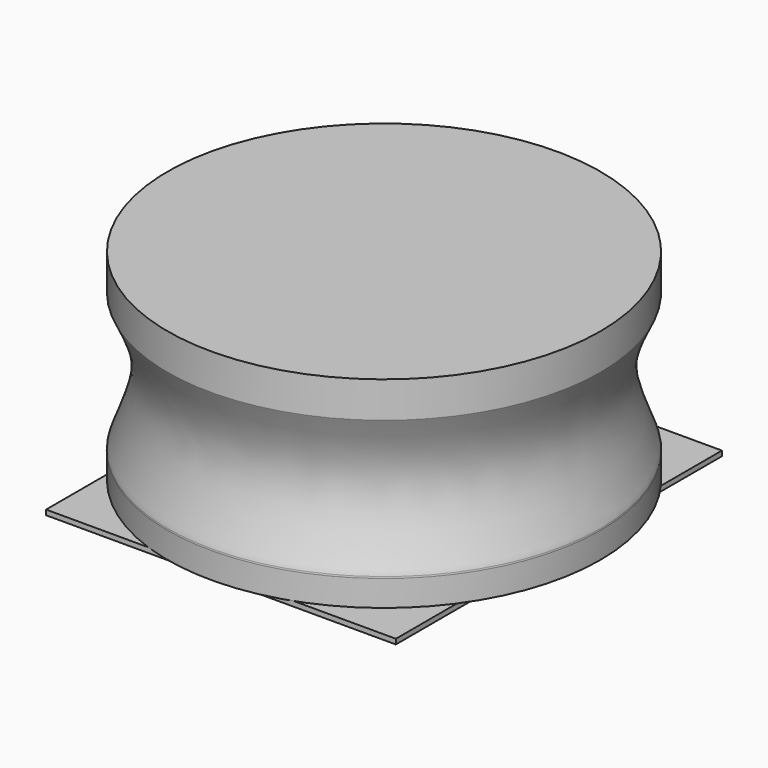
from build123d import *

# Parameters (mm, degrees)
F2_W     = 2.675
F2_H     = 8.1
F3_DEPTH = 0.1


with BuildPart() as f1:
    # F0 (on Front) → F1 (revolve)
    with BuildSketch(Plane.XZ):
        with BuildLine():
            Line((0, 4), (0, 0))
            Line((0, 0), (4.3, 0))
            Line((4.3, 0), (4.3, 0.5141369766))
            Line((4.3, 0.5141369766), (4.3, 0.549889286))
            add(Edge.make_bspline(
                [(4.3, 3.2849381678), (4.0835498067, 2.8322707938), (3.6646621842, 1.9562412686), (4.2710613366, 0.6763216306), (4.3, 0.549889286)],
                knots=[0, 0, 0, 0, 0.4787044083, 0.9264179829, 0.9264179829, 0.9264179829, 0.9264179829], degree=3))
            Line((4.3, 3.2849381678), (4.3, 4))
            Line((4.3, 4), (0, 4))
        make_face()
        with BuildLine():
            Line((4.3, 0.549889286), (4.3, 0.5141369766))
            add(Edge.make_bspline(
                [(4.3, 0.549889286), (4.3047560881, 0.529110048), (4.3023780441, 0.5216235123), (4.3, 0.5141369766)],
                knots=[0.9264179829, 0.9264179829, 0.9264179829, 0.9264179829, 1, 1, 1, 1], degree=3))
        make_face()
    revolve(axis=Axis((0, 0, 2), (0, 0, 1)))


with BuildPart() as f3:
    # F2 (on face) → F3 (new body)
    with BuildSketch(Plane(origin=(0, 0, 0), x_dir=(1, 0, 0), z_dir=(0, 0, -1))):
        with Locations((2.138, 0)):
            Rectangle(F2_W, F2_H)
    extrude(amount=F3_DEPTH)


with BuildPart() as f3b:
    # F2 (on face) → F3, piece 2 (new body)
    with BuildSketch(Plane(origin=(0, 0, 0), x_dir=(1, 0, 0), z_dir=(0, 0, -1))):
        with Locations((-2.138, 0)):
            Rectangle(F2_W, F2_H)
    extrude(amount=F3_DEPTH)


solid = Compound([f1.part, f3.part, f3b.part])
